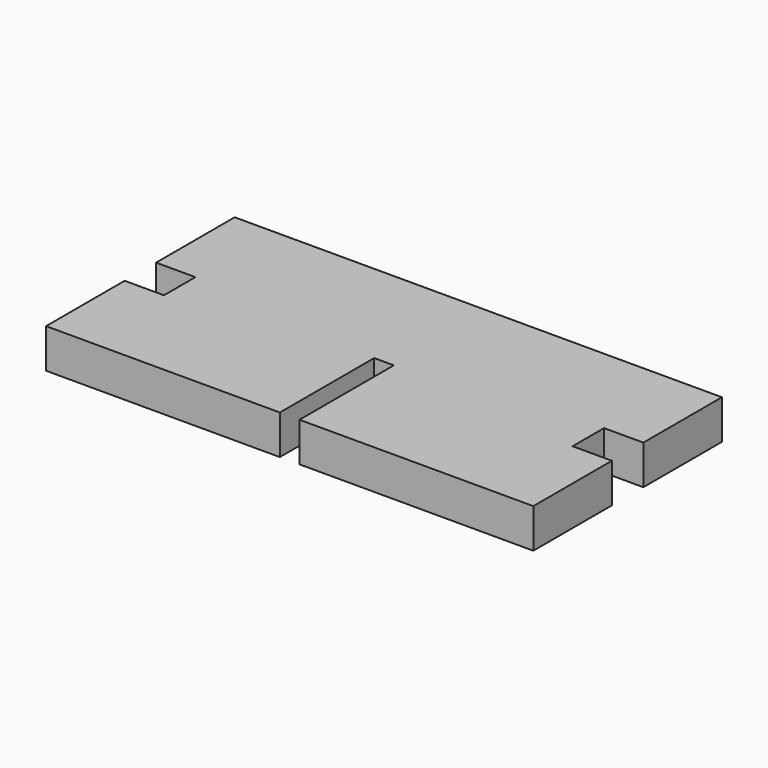
from build123d import *

# Parameters (mm, degrees)
F0_W     = 300
F0_H     = 50
F0_W_2   = 20
F1_DEPTH = 300
F2_W     = 50
F2_H     = 50
F3_DEPTH = 50
F4_DEPTH = 50


with BuildPart() as f1:
    # F0 (on Front) → F1 (new body)
    with BuildSketch(Plane.XZ):
        with Locations((-181.567696, 47.222274)):
            Rectangle(F0_W, F0_H)
        with Locations((-21.567696, 47.222274)):
            Rectangle(F0_W_2, F0_H)
        with Locations((138.432304, 47.222274)):
            Rectangle(F0_W, F0_H)
    extrude(amount=F1_DEPTH)

    # F2 (on face) → F3 (cut)
    with BuildSketch(Plane.XY.offset(72.222274)):
        with Locations((-306.567696, -150)):
            Rectangle(F2_W, F2_H)
        with Locations((263.432304, -150)):
            Rectangle(F2_W, F2_H)
    extrude(amount=-F3_DEPTH, mode=Mode.SUBTRACT)

    # F2 (on face) → F4 (cut)
    with BuildSketch(Plane.XY.offset(72.222274)):
        Polygon((-21.567696, -300), (-9.067696, -300), (-9.067696, -150), (-34.067696, -150), (-34.067696, -300), align=None)
    extrude(amount=-F4_DEPTH, mode=Mode.SUBTRACT)


solid = f1.part
